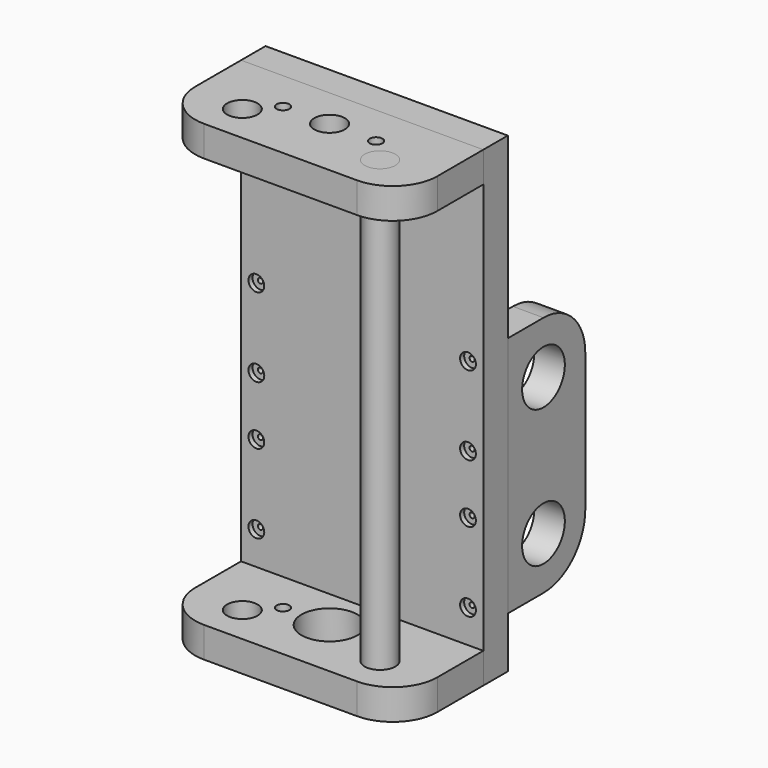
from build123d import *

# Parameters (mm, degrees)
F0_W      = 95
F0_H      = 185
F1_DEPTH  = 12
F2_R      = 5.975
F2_R_2    = 2.5
F2_R_3    = 6
F3_DEPTH  = 12
F4_R      = 3.1
F5_DEPTH  = 2
F6_R      = 1
F7_DEPTH  = 25
F8_R      = 6
F9_DEPTH  = 185
F10_R     = 3
F11_DEPTH = 2
F12_R     = 1
F13_DEPTH = 23
F15_DEPTH = 1.5
F16_R     = 10.475
F17_DEPTH = 12
F18_R     = 3.1
F19_DEPTH = 2
F20_R     = 1
F21_DEPTH = 25
F22_R     = 2.5
F22_R_2   = 11
F22_R_3   = 5.975
F23_DEPTH = 12


with BuildPart() as f1:
    # F0 (on Front) → F1 (new body)
    with BuildSketch(Plane.XZ):
        with Locations((0, 92.5)):
            Rectangle(F0_W, F0_H)
    extrude(amount=-F1_DEPTH)

    # F4 (on face) → F5 (cut)
    with BuildSketch(Plane(origin=(0, 12, 0), x_dir=(-1, 0, 0), z_dir=(0, 1, 0))):
        with Locations((-42.5, 179)):
            Circle(F4_R)
        with Locations((-14.1666666667, 179)):
            Circle(F4_R)
        with Locations((14.1666666667, 179)):
            Circle(F4_R)
        with Locations((42.5, 179)):
            Circle(F4_R)
        with Locations((-42.5, 6)):
            Circle(F4_R)
        with Locations((-14.1666666667, 6)):
            Circle(F4_R)
        with Locations((14.1666666667, 6)):
            Circle(F4_R)
        with Locations((42.5, 6)):
            Circle(F4_R)
    extrude(amount=-F5_DEPTH, mode=Mode.SUBTRACT)


with BuildPart() as f3:
    # F2 (on face) → F3 (new body)
    with BuildSketch(Plane.XY.offset(185)):
        with BuildLine():
            Line((47.5, 0), (-47.5, 0))
            Line((-47.5, 0), (-47.5, -22.5))
            ThreePointArc((-47.5, -22.5), (-42.3743686708, -34.8743686708), (-30, -40))
            Line((-30, -40), (30, -40))
            ThreePointArc((30, -40), (42.3743686708, -34.8743686708), (47.5, -22.5))
            Line((47.5, -22.5), (47.5, 0))
        make_face()
        with Locations((-27, -25)):
            Circle(F2_R, mode=Mode.SUBTRACT)
        with Locations((27, -25)):
            Circle(F2_R, mode=Mode.SUBTRACT)
        with Locations((-18.25, -16)):
            Circle(F2_R_2, mode=Mode.SUBTRACT)
        with Locations((0, -16)):
            Circle(F2_R_3, mode=Mode.SUBTRACT)
        with Locations((18.25, -16)):
            Circle(F2_R_2, mode=Mode.SUBTRACT)
    extrude(amount=-F3_DEPTH)


with BuildPart() as f7_tool:
    # F6 (on face) → F7 (new body)
    with BuildSketch(Plane(origin=(0, 12, 0), x_dir=(-1, 0, 0), z_dir=(0, 1, 0))):
        with Locations((-42.5, 179)):
            Circle(F6_R)
        with Locations((-14.1666666667, 179)):
            Circle(F6_R)
        with Locations((14.1666666667, 179)):
            Circle(F6_R)
        with Locations((42.5, 179)):
            Circle(F6_R)
        with Locations((-42.5, 6)):
            Circle(F6_R)
        with Locations((-14.1666666667, 6)):
            Circle(F6_R)
        with Locations((14.1666666667, 6)):
            Circle(F6_R)
        with Locations((42.5, 6)):
            Circle(F6_R)
    extrude(amount=-F7_DEPTH)


with BuildPart() as f1_1:
    add(f1.part)

    # F7: cut by f7_tool
    add(f7_tool.part, mode=Mode.SUBTRACT)

    # F18 (on face) → F19 (cut)
    with BuildSketch(Plane.XZ):
        with Locations((41.5, 25)):
            Circle(F18_R)
        with Locations((41.5, 56)):
            Circle(F18_R)
        with Locations((41.5, 79)):
            Circle(F18_R)
        with Locations((41.5, 110)):
            Circle(F18_R)
        with Locations((-41.5, 25)):
            Circle(F18_R)
        with Locations((-41.5, 56)):
            Circle(F18_R)
        with Locations((-41.5, 79)):
            Circle(F18_R)
        with Locations((-41.5, 110)):
            Circle(F18_R)
    extrude(amount=-F19_DEPTH, mode=Mode.SUBTRACT)


with BuildPart() as f3_1:
    add(f3.part)

    # F7: cut by f7_tool
    add(f7_tool.part, mode=Mode.SUBTRACT)


with BuildPart() as f9:
    # F8 (on face) → F9 (new body)
    with BuildSketch(Plane.XY.offset(185)):
        with Locations((27, -25)):
            Circle(F8_R)
    extrude(amount=-F9_DEPTH)


with BuildPart() as f11:
    # F10 (on face) → F11 (new body)
    with BuildSketch(Plane(origin=(0, 12, 0), x_dir=(-1, 0, 0), z_dir=(0, 1, 0))):
        with Locations((-42.5, 179)):
            Circle(F10_R)
    extrude(amount=-F11_DEPTH)

    # F12 (on face) → F13 (join)
    with BuildSketch(Plane.XZ.offset(-10)):
        with Locations((42.5, 179)):
            Circle(F12_R)
    extrude(amount=F13_DEPTH)

    # F14 (on face) → F15 (cut)
    with BuildSketch(Plane(origin=(0, 12, 0), x_dir=(-1, 0, 0), z_dir=(0, 1, 0))):
        Polygon((-42.15, 181.35), (-42.85, 181.35), (-42.85, 179.35), (-44.85, 179.35), (-44.85, 178.65), (-42.85, 178.65), (-42.85, 176.65), (-42.15, 176.65), (-42.15, 178.65), (-40.15, 178.65), (-40.15, 179.35), (-42.15, 179.35), align=None)
    extrude(amount=-F15_DEPTH, mode=Mode.SUBTRACT)


with BuildPart() as f17:
    # F16 (on face) → F17 (new body)
    with BuildSketch(Plane.YZ.offset(47.5)):
        with BuildLine():
            Line((12, 115), (12, 20))
            Line((12, 20), (29.5, 20))
            ThreePointArc((29.5, 20), (43.9956890143, 26.0043109857), (50, 40.5))
            Line((50, 40.5), (50, 94.5))
            ThreePointArc((50, 94.5), (43.9956890143, 108.9956890143), (29.5, 115))
            Line((29.5, 115), (12, 115))
        make_face()
        with Locations((29.5, 40.5)):
            Circle(F16_R, mode=Mode.SUBTRACT)
        with Locations((29.5, 94.5)):
            Circle(F16_R, mode=Mode.SUBTRACT)
    extrude(amount=-F17_DEPTH)


with BuildPart() as f21_tool:
    # F20 (on face) → F21 (new body)
    with BuildSketch(Plane.XZ):
        with Locations((-41.5, 25)):
            Circle(F20_R)
        with Locations((-41.5, 56)):
            Circle(F20_R)
        with Locations((-41.5, 79)):
            Circle(F20_R)
        with Locations((-41.5, 110)):
            Circle(F20_R)
        with Locations((41.5, 110)):
            Circle(F20_R)
        with Locations((41.5, 79)):
            Circle(F20_R)
        with Locations((41.5, 56)):
            Circle(F20_R)
        with Locations((41.5, 25)):
            Circle(F20_R)
    extrude(amount=-F21_DEPTH)


with BuildPart() as f1_2:
    add(f1_1.part)

    # F21: cut by f21_tool
    add(f21_tool.part, mode=Mode.SUBTRACT)


with BuildPart() as f17_1:
    add(f17.part)

    # F21: cut by f21_tool
    add(f21_tool.part, mode=Mode.SUBTRACT)


with BuildPart() as f23:
    # F22 (on face) → F23 (new body)
    with BuildSketch(Plane(origin=(0, 0, 0), x_dir=(1, 0, 0), z_dir=(0, 0, -1))):
        with BuildLine():
            Line((-47.5, 22.5), (-47.5, 0))
            Line((-47.5, 0), (47.5, 0))
            Line((47.5, 0), (47.5, 22.5))
            ThreePointArc((47.5, 22.5), (42.3743686708, 34.8743686708), (30, 40))
            Line((30, 40), (-30, 40))
            ThreePointArc((-30, 40), (-42.3743686708, 34.8743686708), (-47.5, 22.5))
        make_face()
        with Locations((-18.25, 16)):
            Circle(F22_R, mode=Mode.SUBTRACT)
        with Locations((0, 16)):
            Circle(F22_R_2, mode=Mode.SUBTRACT)
        with Locations((18.25, 16)):
            Circle(F22_R, mode=Mode.SUBTRACT)
        with Locations((-27, 25)):
            Circle(F22_R_3, mode=Mode.SUBTRACT)
        with Locations((27, 25)):
            Circle(F22_R_3, mode=Mode.SUBTRACT)
    extrude(amount=-F23_DEPTH)


solid = Compound([f3_1.part, f9.part, f11.part, f1_2.part, f17_1.part, f23.part])
